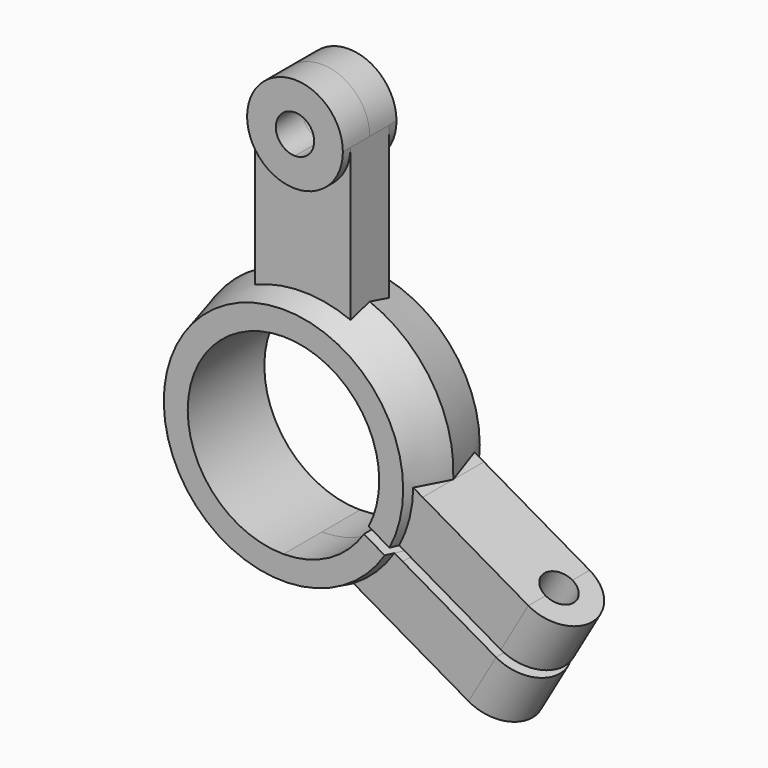
from build123d import *

# Parameters (mm, degrees)
F1_DEPTH  = 7
F4_R      = 27.5
F3_R      = 25
F7_R      = 25
F9_DEPTH  = 5
F10_DEPTH = 24.4
F11_DEPTH = 8
F14_DEPTH = 48.7
F15_DEPTH = 60.7407367097
F12_R     = 3.5
F16_DEPTH = 12
F17_R     = 3
F18_DEPTH = 12


with BuildPart() as f1:
    # F0 (on Front) → F1 (new body, symmetric)
    with BuildSketch(Plane.XZ):
        with BuildLine():
            ThreePointArc((-10, 56), (-7.0710678119, 48.9289321881), (0, 46))
            ThreePointArc((0, 46), (7.0710678119, 48.9289321881), (10, 56))
            ThreePointArc((10, 56), (0, 66), (-10, 56))
        make_face()
        with BuildLine():
            ThreePointArc((4, 56), (2.8284271247, 53.1715728753), (0, 52))
            ThreePointArc((0, 52), (-2.8284271247, 58.8284271247), (4, 56))
        make_face(mode=Mode.SUBTRACT)
    extrude(amount=F1_DEPTH, both=True)



with BuildPart() as f5:
    # F4 (on Front) → F5 section 0
    with BuildSketch(Plane.XZ):
        Circle(F4_R)
    # F3 (on offset) → F5 section 1
    with BuildSketch(Plane.XZ.offset(10)):
        Circle(F3_R)
    loft()

    # F4 (on Front) → F8 section 0
    with BuildSketch(Plane.XZ):
        Circle(F4_R)
    # F7 (on offset) → F8 section 1
    with BuildSketch(Plane.XZ.offset(-10)):
        Circle(F7_R)
    loft()


with BuildPart() as f1_1:
    add(f1.part)

    add(f5.part)  # F9 merges F5
    # F0 (on Front) → F9 (join, symmetric)
    with BuildSketch(Plane.XZ):
        with BuildLine():
            Line((0, 46), (0, 27.5))
            ThreePointArc((0, 27.5), (5.0878352391, 27.0252462076), (10, 25.6173769149))
            Line((10, 25.6173769149), (10, 56))
            ThreePointArc((10, 56), (7.0710678119, 48.9289321881), (0, 46))
        make_face()
        with BuildLine():
            ThreePointArc((-10, 25.6173769149), (-5.0878352391, 27.0252462076), (0, 27.5))
            Line((0, 27.5), (0, 46))
            ThreePointArc((0, 46), (-7.0710678119, 48.9289321881), (-10, 56))
            Line((-10, 56), (-10, 25.6173769149))
        make_face()
        with BuildLine():
            ThreePointArc((-10, 22.9128784748), (-5.1077410922, 24.4726578233), (0, 25))
            Line((0, 25), (0, 27.5))
            ThreePointArc((0, 27.5), (-5.0878352391, 27.0252462076), (-10, 25.6173769149))
            Line((-10, 25.6173769149), (-10, 22.9128784748))
        make_face()
        with BuildLine():
            Line((0, 27.5), (0, 25))
            ThreePointArc((0, 25), (5.1077410922, 24.4726578233), (10, 22.9128784748))
            Line((10, 22.9128784748), (10, 25.6173769149))
            ThreePointArc((10, 25.6173769149), (5.0878352391, 27.0252462076), (0, 27.5))
        make_face()
    extrude(amount=F9_DEPTH, both=True)

    # F0 (on Front) → F10 (cut, symmetric)
    with BuildSketch(Plane.XZ):
        with BuildLine():
            Line((0, 0), (0, 20))
            ThreePointArc((0, 20), (-20, 0), (0, -20))
            Line((0, -20), (0, 0))
        make_face()
        with BuildLine():
            ThreePointArc((0, -20), (14.1421356237, -14.1421356237), (20, 0))
            ThreePointArc((20, 0), (14.1421356237, 14.1421356237), (0, 20))
            Line((0, 20), (0, 0))
            Line((0, 0), (0, -20))
        make_face()
    extrude(amount=F10_DEPTH, both=True, mode=Mode.SUBTRACT)

    # F0 (on Front) → F11 (join, symmetric)
    with BuildSketch(Plane.XZ):
        with BuildLine():
            Line((49.5512701892, -14.1746824527), (27.4632034356, -1.4221311666))
            ThreePointArc((27.4632034356, -1.4221311666), (26.5074954683, -7.3213853878), (24.2999474789, -12.8748806799))
            Line((24.2999474789, -12.8748806799), (43.8012701892, -24.1339745962))
            Line((43.8012701892, -24.1339745962), (49.5512701892, -14.1746824527))
        make_face()
        Polygon((56.4794734195, -18.1746824527), (49.5512701892, -14.1746824527), (43.8012701892, -24.1339745962), (50.7294734195, -28.1339745962), align=None)
        Polygon((42.8012701892, -25.8660254038), (37.0512701892, -35.8253175473), (43.9794734195, -39.8253175473), (49.7294734195, -29.8660254038), align=None)
        with BuildLine():
            ThreePointArc((23.2999474789, -14.6069314874), (19.5942534709, -19.2954717724), (14.9632034356, -23.0727662612))
            Line((14.9632034356, -23.0727662612), (37.0512701892, -35.8253175473))
            Line((37.0512701892, -35.8253175473), (42.8012701892, -25.8660254038))
            Line((42.8012701892, -25.8660254038), (23.2999474789, -14.6069314874))
        make_face()
        with BuildLine():
            Line((27.4632034356, -1.4221311666), (25, 0))
            ThreePointArc((25, 0), (24.2727490338, -5.9861218113), (22.1333076528, -11.623970593))
            Line((22.1333076528, -11.623970593), (24.2999474789, -12.8748806799))
            ThreePointArc((24.2999474789, -12.8748806799), (26.5074954683, -7.3213853878), (27.4632034356, -1.4221311666))
        make_face()
        with BuildLine():
            ThreePointArc((21.1333076528, -13.3560214006), (17.3205080757, -18.0277563773), (12.5, -21.6506350946))
            Line((12.5, -21.6506350946), (14.9632034356, -23.0727662612))
            ThreePointArc((14.9632034356, -23.0727662612), (19.5942534709, -19.2954717724), (23.2999474789, -14.6069314874))
            Line((23.2999474789, -14.6069314874), (21.1333076528, -13.3560214006))
        make_face()
    extrude(amount=F11_DEPTH, both=True)

    # F13 (on face) → F14 (cut)
    with BuildSketch(Plane(origin=(50.2294734195, 0, -29), x_dir=(0, 1, 0), z_dir=(0.8660254038, 0, -0.5))):
        Polygon((16.3611844182, 1), (8, 1), (-8, 1), (-11.9865061715, 1), (-11.9865061715, -1), (-8, -1), (8, -1), (16.3611844182, -1), align=None)
    extrude(amount=-F14_DEPTH, mode=Mode.SUBTRACT)

    # F12 (on face) → F15 (cut, through all)
    with BuildSketch(Plane(origin=(6.25, 0, 10.8253175473), x_dir=(0.8660254038, 0, -0.5), z_dir=(0.5, 0, 0.8660254038))):
        with BuildLine():
            ThreePointArc((58, 0), (55.6568542495, -5.6568542495), (50, -8))
            Line((50, -8), (58, -8))
            Line((58, -8), (58, 0))
        make_face()
        with BuildLine():
            Line((58, 8), (50, 8))
            ThreePointArc((50, 8), (55.6568542495, 5.6568542495), (58, 0))
            Line((58, 0), (58, 8))
        make_face()
    extrude(amount=-F15_DEPTH, mode=Mode.SUBTRACT)

    # F12 (on face) → F16 (cut)
    with BuildSketch(Plane(origin=(6.25, 0, 10.8253175473), x_dir=(0.8660254038, 0, -0.5), z_dir=(0.5, 0, 0.8660254038))):
        with Locations((50, 0)):
            Circle(F12_R)
    extrude(amount=-F16_DEPTH, mode=Mode.SUBTRACT)

    # F17 (on face) → F18 (cut)
    with BuildSketch(Plane(origin=(-6.25, 0, -10.8253175473), x_dir=(0.8660254038, 0, -0.5), z_dir=(-0.5, 0, -0.8660254038))):
        with Locations((50, 0)):
            Circle(F17_R)
    extrude(amount=-F18_DEPTH, mode=Mode.SUBTRACT)


solid = f1_1.part
